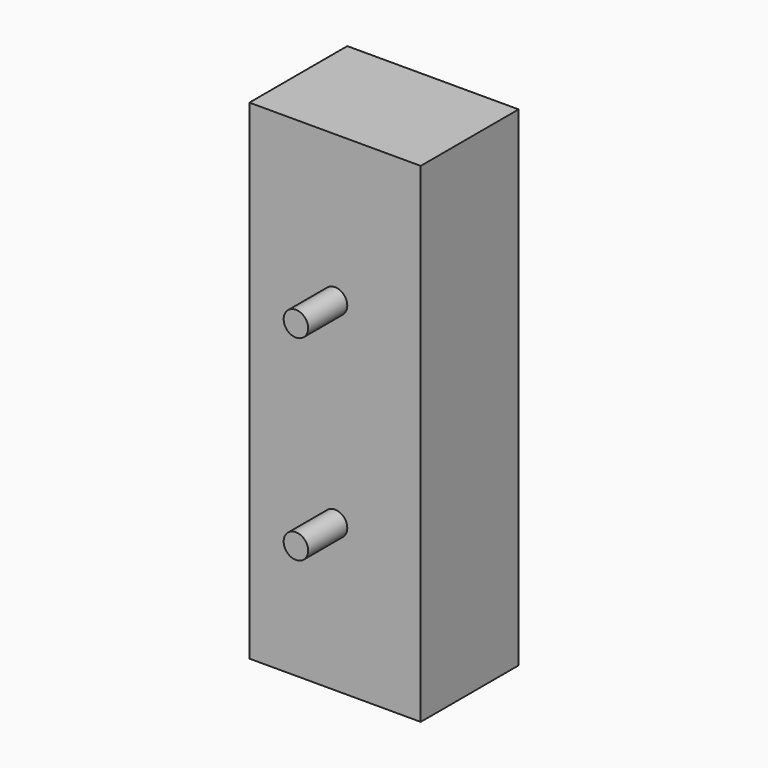
from build123d import *

# Parameters (mm, degrees)
F0_W          = 10
F0_H          = 40
F1_DEPTH      = 7
F1_DEPTH_BACK = 7
F2_R          = 1
F3_DEPTH      = 4


with BuildPart() as f1:
    # F0 (on Right) → F1 (new body, two sides)
    with BuildSketch(Plane.YZ) as f1_sk:
        Rectangle(F0_W, F0_H)
    extrude(amount=F1_DEPTH)
    extrude(f1_sk.sketch, amount=-F1_DEPTH_BACK)

    # F2 (on face) → F3 (join)
    with BuildSketch(Plane.XZ.offset(5)):
        with Locations((0, 8)):
            Circle(F2_R)
        with Locations((0, -8)):
            Circle(F2_R)
    extrude(amount=F3_DEPTH)


solid = f1.part
